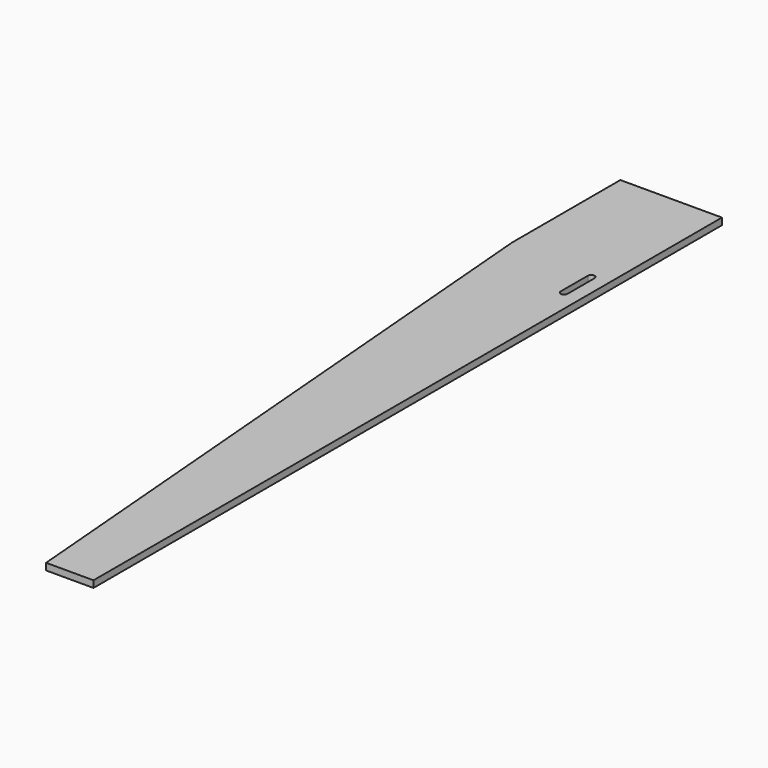
from build123d import *

# Parameters (mm, degrees)
F1_DEPTH = 6.35


with BuildPart() as f1:
    # F0 (on Top) → F1 (new body)
    with BuildSketch(Plane.XY):
        Polygon((101.6, 0), (6.35, 0), (6.35, -736.6), (50.8, -736.6), (101.6, -127), align=None)
        with BuildLine():
            ThreePointArc((19.05, -133.35), (22.225, -130.175), (25.4, -133.35))
            Line((25.4, -133.35), (25.4, -165.1))
            ThreePointArc((25.4, -165.1), (22.225, -168.275), (19.05, -165.1))
            Line((19.05, -165.1), (19.05, -133.35))
        make_face(mode=Mode.SUBTRACT)
    extrude(amount=F1_DEPTH)


with BuildPart() as f2_1:
    # F2: instance of F1
    add(f1.part.mirror(Plane.YZ))


solid = f2_1.part
